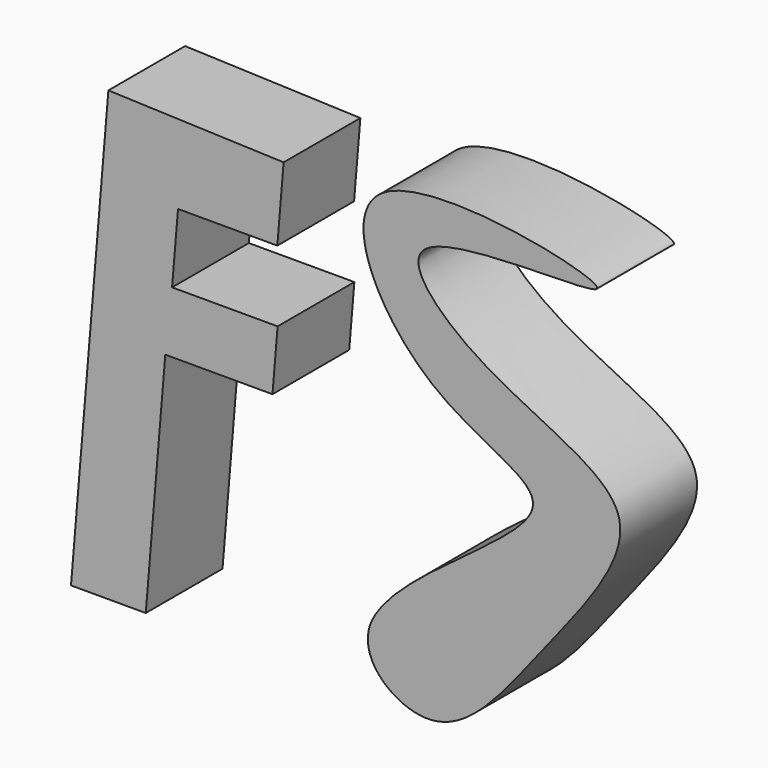
from build123d import *

# Parameters (mm, degrees)
F1_DEPTH = 25.4


with BuildPart() as f1:
    # F0 (on Front) → F1 (new body)
    with BuildSketch(Plane.XZ):
        with BuildLine():
            add(Edge.make_bspline(
                [(67.1790763736, 60.3053607047), (67.8980127567, 63.0948989555), (-13.1694853432, 81.1237095694), (17.9923964493, 16.8501932375), (73.8480165964, 6.4917650766), (-10.8809482104, -34.7462694207), (26.1578579483, -64.3813339702), (51.4913065995, -29.0630884348), (88.1498716267, 13.7190743816), (37.5101697624, 27.799767414), (2.8486418261, 63.1531520183), (66.5346855321, 57.805065904), (67.1790763736, 60.3053607047)],
                knots=[0, 0, 0, 0, 0.1183949926, 0.2203366607, 0.3118986626, 0.4333739977, 0.5073815602, 0.6066936257, 0.7097985777, 0.8133966326, 0.8938812241, 1, 1, 1, 1], degree=3))
        make_face()
    extrude(amount=F1_DEPTH)


with BuildPart() as f1b:
    # F0 (on Front) → F1, piece 2 (new body)
    with BuildSketch(Plane.XZ):
        Polygon((-15.8394693198, 62.6563229408), (-62.2299984097, 64.337939024), (-72.1281468868, -54.2564988136), (-52.3318573833, -54.2564988136), (-47.1650249239, 7.6497852082), (-18.7881439924, 7.6497852082), (-17.430683476, 23.9141670978), (-45.3664958477, 23.9141670978), (-43.7985739128, 42.7001876219), (-17.5050515682, 42.7001876219), align=None)
    extrude(amount=F1_DEPTH)


solid = Compound([f1.part, f1b.part])
